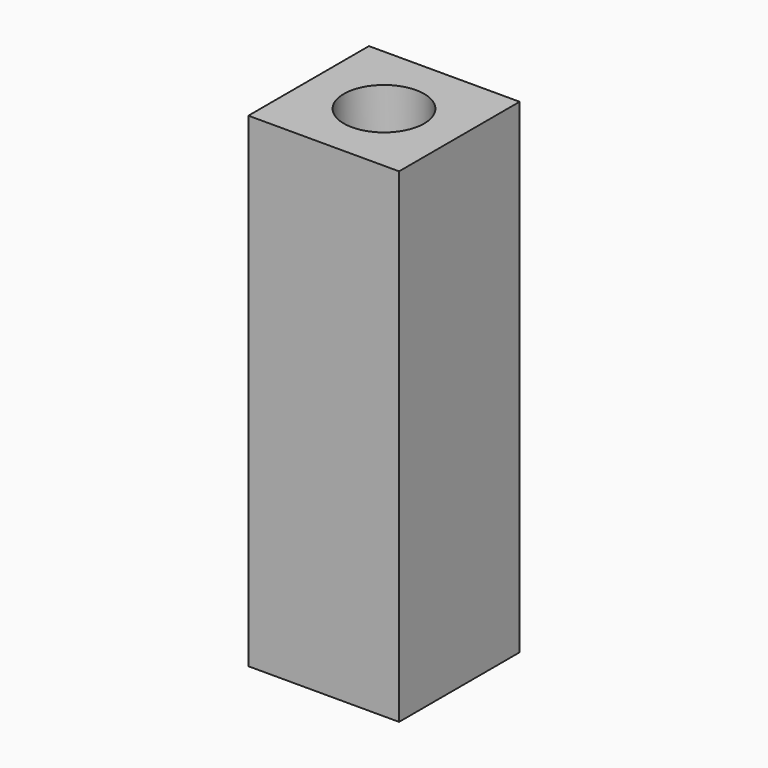
from build123d import *

# Parameters (mm, degrees)
SKETCH023_W      = 6
SKETCH023_H      = 6
EXTRUDE015_DEPTH = 19.3
SKETCH024_R      = 1.6
HOLE002_DEPTH    = 2.5
HOLE002_TIPS_R   = 1.6


with BuildPart() as part:
    # Sketch023 (on Face6 of BaseFeature005) → Extrude015 (new body)
    with BuildSketch(Plane.XY.offset(2)):
        with Locations((5, -104.299998)):
            Rectangle(SKETCH023_W, SKETCH023_H)
    extrude(amount=EXTRUDE015_DEPTH)

    # Sketch024 (on Face6 of Extrude015) → Hole002 (cut)
    with BuildSketch(Plane.XY.offset(21.3)):
        with Locations((5, -104.300002)):
            Circle(SKETCH024_R)
    extrude(amount=-HOLE002_DEPTH, mode=Mode.SUBTRACT)

    # Hole002 tips → Hole002 tip 1 section 0
    with BuildSketch(Plane.XY.offset(18.8), mode=Mode.PRIVATE) as hole002_tip_1_s0:
        with Locations((5, -104.300002)):
            Circle(HOLE002_TIPS_R)
    loft([hole002_tip_1_s0.sketch, Vertex(5, -104.300002, 17.838623)], mode=Mode.SUBTRACT)


solid = part.part
